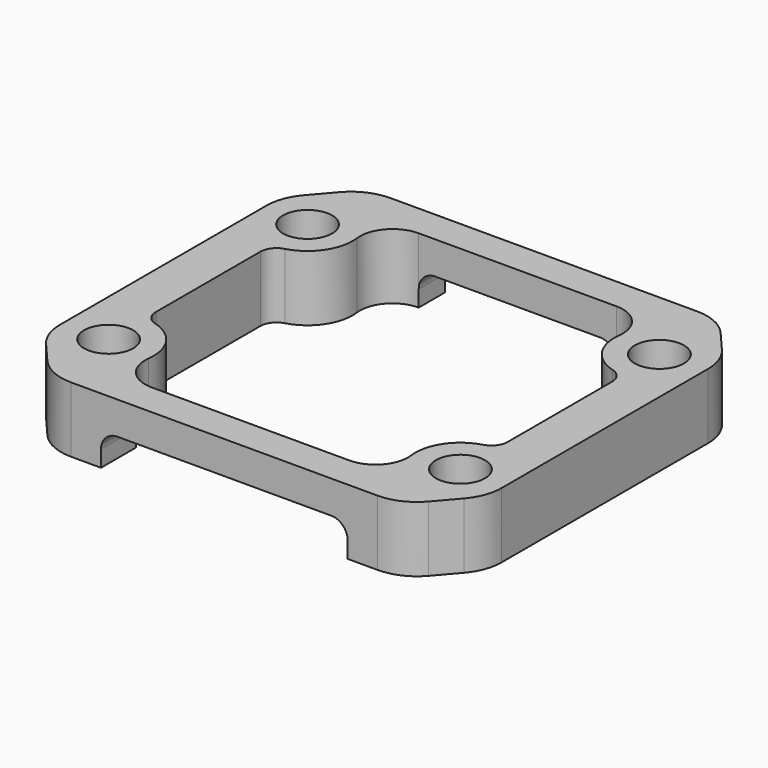
from build123d import *

# Parameters (mm, degrees)
F0_R     = 1.5
F1_DEPTH = 4
F2_R     = 2
F3_R     = 1
F4_R     = 3
F5_W     = 12.076094228
F5_H     = 2
F6_DEPTH = 2
F7_R     = 1


with BuildPart() as f1:
    # F0 (on Top) → F1 (new body)
    with BuildSketch(Plane.XY):
        Polygon((0, 19.8), (-2.75, 16.6034741081), (-2.75, -1.4034741081), (0, -4.6), (21.5, -4.6), (24.25, -1.4034741081), (24.25, 16.6034741081), (21.5, 19.8), align=None)
        Circle(F0_R, mode=Mode.SUBTRACT)
        with Locations((21.5, 0)):
            Circle(F0_R, mode=Mode.SUBTRACT)
        with Locations((0, 15.2)):
            Circle(F0_R, mode=Mode.SUBTRACT)
        with BuildLine():
            Line((20.6041763566, -2.6), (0.8958236434, -2.6))
            ThreePointArc((0.8958236434, -2.6), (2.712240771, 0.4541475531), (0, 2.75))
            Line((0, 2.75), (0, 12.45))
            ThreePointArc((0, 12.45), (2.712240771, 14.7458524469), (0.8958236434, 17.8))
            Line((0.8958236434, 17.8), (20.6041763566, 17.8))
            ThreePointArc((20.6041763566, 17.8), (18.787759229, 14.7458524469), (21.5, 12.45))
            Line((21.5, 12.45), (21.5, 2.75))
            ThreePointArc((21.5, 2.75), (18.787759229, 0.4541475531), (20.6041763566, -2.6))
        make_face(mode=Mode.SUBTRACT)
        with Locations((21.5, 15.2)):
            Circle(F0_R, mode=Mode.SUBTRACT)
    extrude(amount=F1_DEPTH)

    # F2
    f2_edges = [f1.edges().sort_by_distance(p)[0] for p in [
        (0.895824, 17.8, 2),
        (20.604176, 17.8, 2),
        (0.895824, -2.6, 2),
        (20.604176, -2.6, 2),
    ]]
    fillet(f2_edges, radius=F2_R)

    # F3
    f3_edges = [f1.edges().sort_by_distance(p)[0] for p in [
        (0, 12.45, 2),
        (0, 2.75, 2),
        (21.5, 12.45, 2),
        (21.5, 2.75, 2),
    ]]
    fillet(f3_edges, radius=F3_R)

    # F4
    f4_edges = [f1.edges().sort_by_distance(p)[0] for p in [
        (0, -4.6, 2),
        (21.5, -4.6, 2),
        (24.25, -1.403474, 2),
        (24.25, 16.603474, 2),
        (21.5, 19.8, 2),
        (0, 19.8, 2),
        (-2.75, 16.603474, 2),
        (-2.75, -1.403474, 2),
    ]]
    fillet(f4_edges, radius=F4_R)

    # F5 (on face) → F6 (cut)
    with BuildSketch(Plane(origin=(0, 0, 0), x_dir=(1, 0, 0), z_dir=(0, 0, -1))):
        with Locations((10.75, -18.8)):
            Rectangle(F5_W, F5_H)
        with BuildLine():
            Line((3.211952886, 4.6), (3.211952886, 1.9228756555))
            ThreePointArc((3.211952886, 1.9228756555), (3.8890772305, 2.4228756555), (4.711952886, 2.6))
            Line((4.711952886, 2.6), (16.788047114, 2.6))
            ThreePointArc((16.788047114, 2.6), (17.6109227695, 2.4228756555), (18.288047114, 1.9228756555))
            Line((18.288047114, 1.9228756555), (18.288047114, 4.6))
            Line((18.288047114, 4.6), (3.211952886, 4.6))
        make_face()
    extrude(amount=-F6_DEPTH, mode=Mode.SUBTRACT)

    # F7
    f7_edges = [f1.edges().sort_by_distance(p)[0] for p in [
        (4.711953, 18.8, 2),
        (16.788047, 18.8, 2),
        (18.288047, -3.261438, 2),
        (3.211953, -3.261438, 2),
    ]]
    fillet(f7_edges, radius=F7_R)


solid = f1.part
